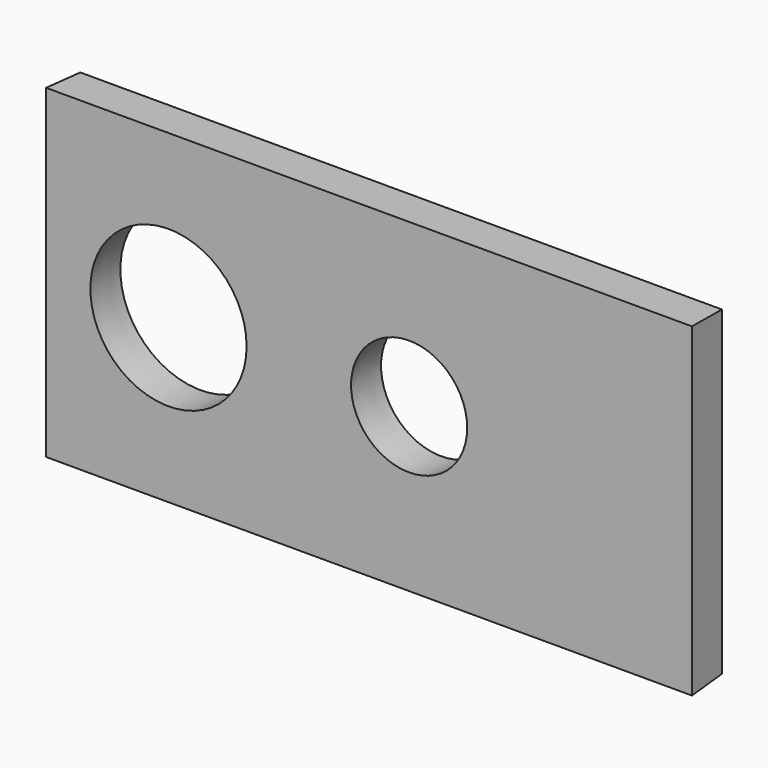
from build123d import *

# Parameters (mm, degrees)
F0_W     = 203.2
F0_H     = 101.6
F0_R     = 25.4
F0_R_2   = 19.05
F1_DEPTH = 12.7
F1_TAPER = -3


with BuildPart() as f1:
    # F0 (on Front) → F1 (new body)
    with BuildSketch(Plane.XZ):
        with Locations((-25.1942488194, 0)):
            Rectangle(F0_W, F0_H)
        with Locations((-88.6942488194, 0)):
            Circle(F0_R, mode=Mode.SUBTRACT)
        with Locations((-12.4942488194, 0)):
            Circle(F0_R_2, mode=Mode.SUBTRACT)
    extrude(amount=F1_DEPTH, taper=F1_TAPER)


solid = f1.part
